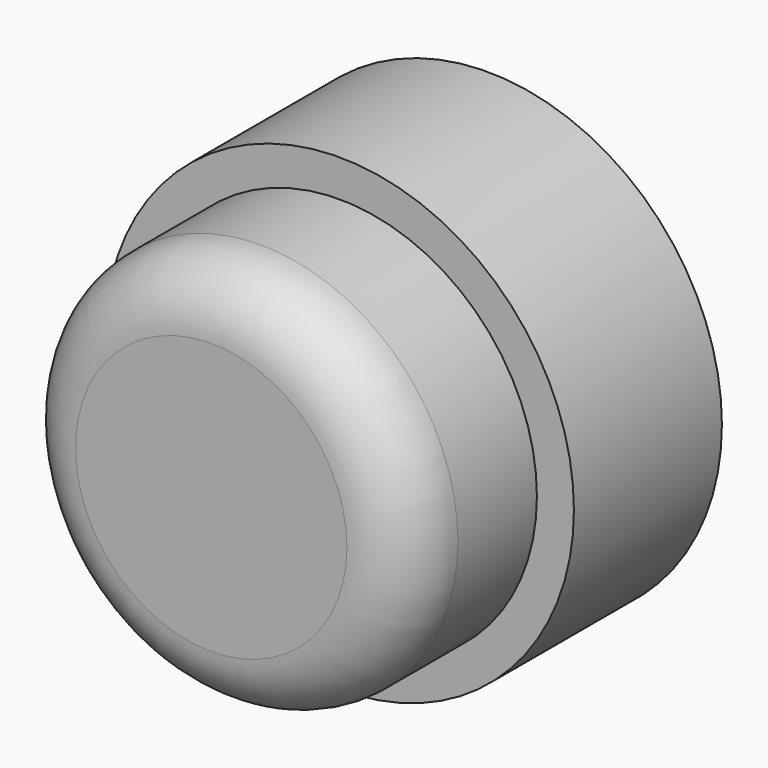
from build123d import *

# Parameters (mm, degrees)
SKETCH026_R     = 3.8
PAD009_DEPTH    = 3
SKETCH027_R     = 3.2
PAD010_DEPTH    = 2.6
FILLET_R        = 1
SKETCH029_R     = 2
POCKET013_DEPTH = 1


with BuildPart() as part:
    # Sketch026 → Pad009 (new body)
    with BuildSketch(Plane.XZ):
        with Locations((28.8, 9.2)):
            Circle(SKETCH026_R)
    extrude(amount=PAD009_DEPTH)

    # Sketch027 (on Face3 of Pad009) → Pad010 (join)
    with BuildSketch(Plane.XZ.offset(3)):
        with Locations((28.8, 9.2)):
            Circle(SKETCH027_R)
    extrude(amount=PAD010_DEPTH)

    # Fillet
    fillet_edges = [part.edges().sort_by_distance(p)[0] for p in [
        (25.6, -5.6, 9.2),
    ]]
    fillet(fillet_edges, radius=FILLET_R)

    # Sketch029 (on Face6 of Fillet) → Pocket013 (cut)
    with BuildSketch(Plane(origin=(0, 0, 0), x_dir=(1, 0, 0), z_dir=(0, 1, 0))):
        with Locations((28.8, -9.2)):
            Circle(SKETCH029_R)
    extrude(amount=-POCKET013_DEPTH, mode=Mode.SUBTRACT)


with BuildPart() as part_1:
    # Body003 placement: moved
    add(part.part.moved(Location((0, 1.4, 0))))


solid = part_1.part
